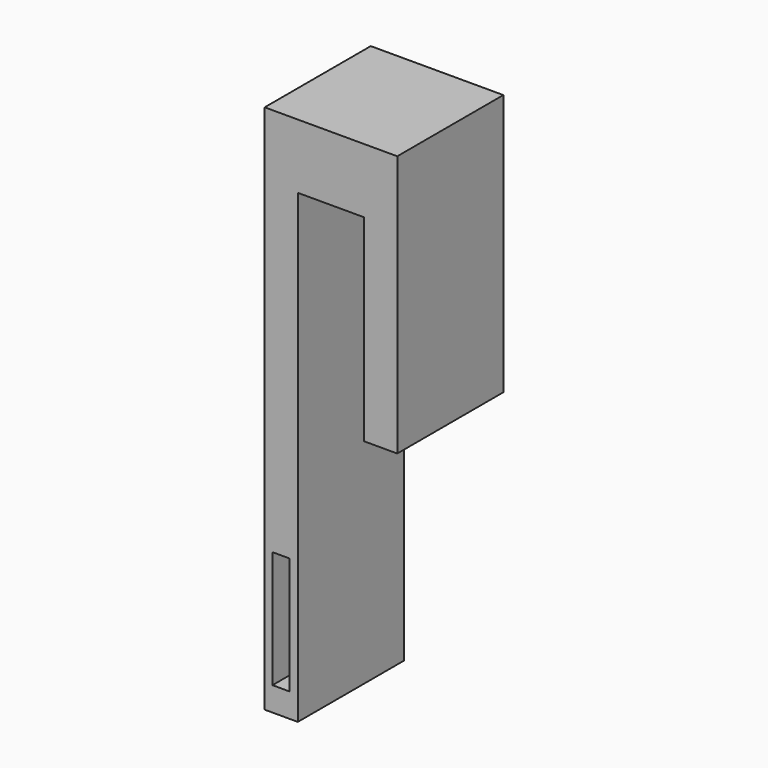
from build123d import *

# Parameters (mm, degrees)
F0_W     = 6.35
F0_H     = 89.242675
F0_H_2   = 37.779868
F1_DEPTH = 25.4
F2_W     = 3.216749
F2_H     = 22.433942
F3_DEPTH = 25.4


with BuildPart() as f1:
    # F0 (on Front) → F1 (new body)
    with BuildSketch(Plane.XZ):
        with Locations((-26.027484, -6.841469)):
            Rectangle(F0_W, F0_H)
        Polygon((-16.502484, 50.137193), (-29.202484, 50.137193), (-29.202484, 37.779868), (-22.852484, 37.779868), (-16.502484, 37.779868), align=None)
        Polygon((-3.802484, 50.137193), (-16.502484, 50.137193), (-16.502484, 37.779868), (-10.152484, 37.779868), (-3.802484, 37.779868), align=None)
        with Locations((-6.977484, 18.889934)):
            Rectangle(F0_W, F0_H_2)
    extrude(amount=F1_DEPTH)

    # F2 (on face) → F3 (cut)
    with BuildSketch(Plane.XZ.offset(25.4)):
        with Locations((-26.099375, -35.625567)):
            Rectangle(F2_W, F2_H)
    extrude(amount=-F3_DEPTH, mode=Mode.SUBTRACT)


solid = f1.part
